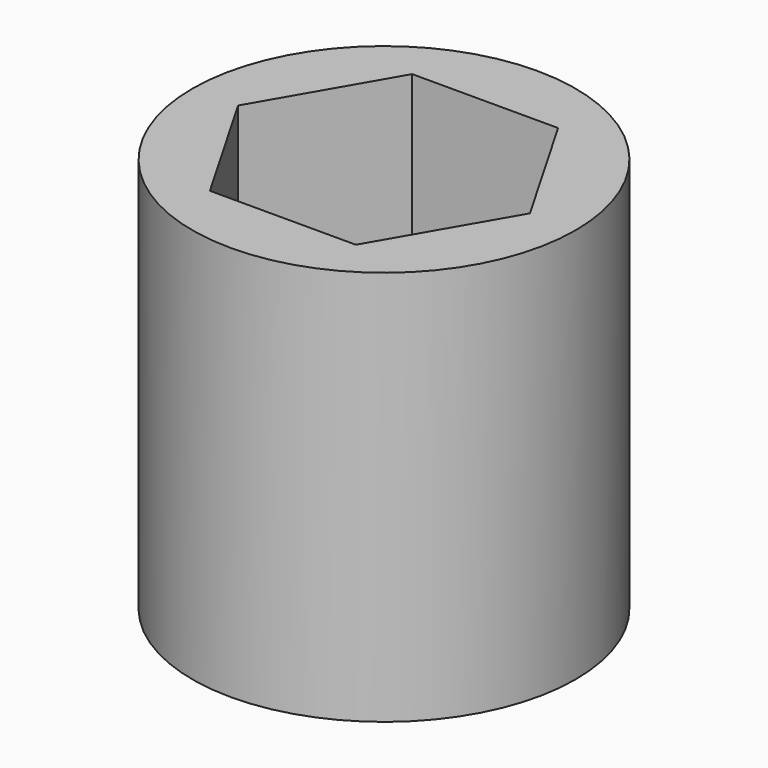
from build123d import *

# Parameters (mm, degrees)
F0_R     = 42.233488
F1_DEPTH = 87.122
F3_DEPTH = 165.862


with BuildPart() as f1:
    # F0 (on Top) → F1 (new body)
    with BuildSketch(Plane.XY):
        Circle(F0_R)
    extrude(amount=-F1_DEPTH)

    # F2 (on face) → F3 (cut)
    with BuildSketch(Plane(origin=(0, 0, -87.122), x_dir=(1, 0, 0), z_dir=(0, 0, -1))):
        Polygon((16.079124, 27.84986), (-16.079124, 27.84986), (-32.158249, 0), (-16.079124, -27.84986), (16.079124, -27.84986), (32.158249, 0), align=None)
    extrude(amount=-F3_DEPTH, mode=Mode.SUBTRACT)


solid = f1.part
